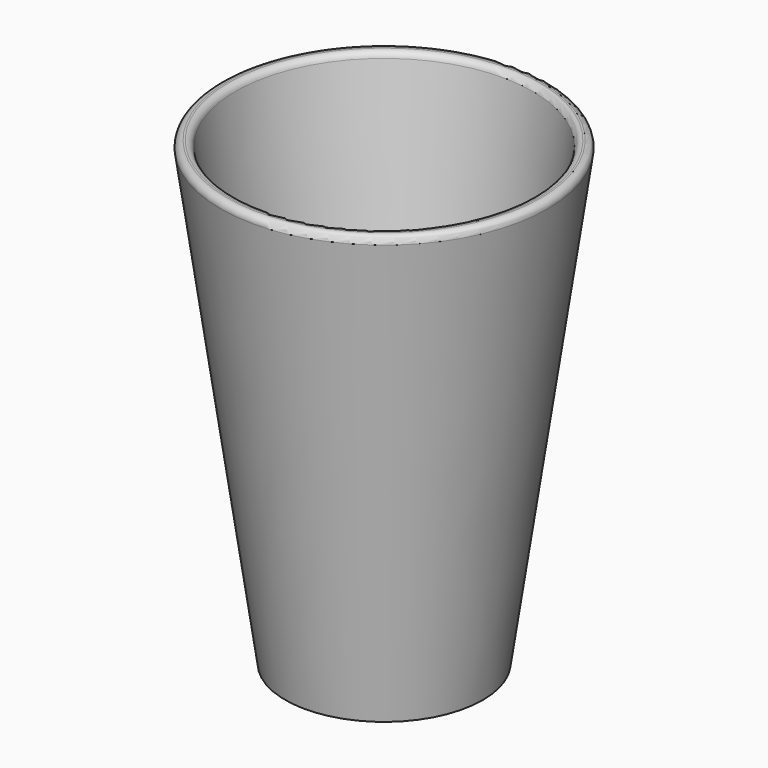
from build123d import *

# Parameters (mm, degrees)
FILLET_R = 1


with BuildPart() as cono:
    # Cone001 → Cone001 (revolve)
    with BuildSketch(Plane(origin=(0, 0, 2), x_dir=(1, 0, 0), z_dir=(0, -1, 0))):
        Polygon((0, 0), (13, 0), (23, 70), (0, 70), align=None)
    revolve(axis=Axis((0, 0, 2), (0, 0, 1)))


with BuildPart() as fillet_body:
    # Cone → Cone (revolve)
    with BuildSketch(Plane.XZ):
        Polygon((0, 0), (15, 0), (25, 70), (0, 70), align=None)
    revolve(axis=Axis((0, 0, 0), (0, 0, 1)))

    # Cut: cut Cono
    add(cono.part, mode=Mode.SUBTRACT)

    # Fillet
    fillet_edges = [fillet_body.edges().sort_by_distance(p)[0] for p in [
        (-25, 0, 70),
        (-22.714286, 0, 70),
    ]]
    fillet(fillet_edges, radius=FILLET_R)


solid = fillet_body.part
